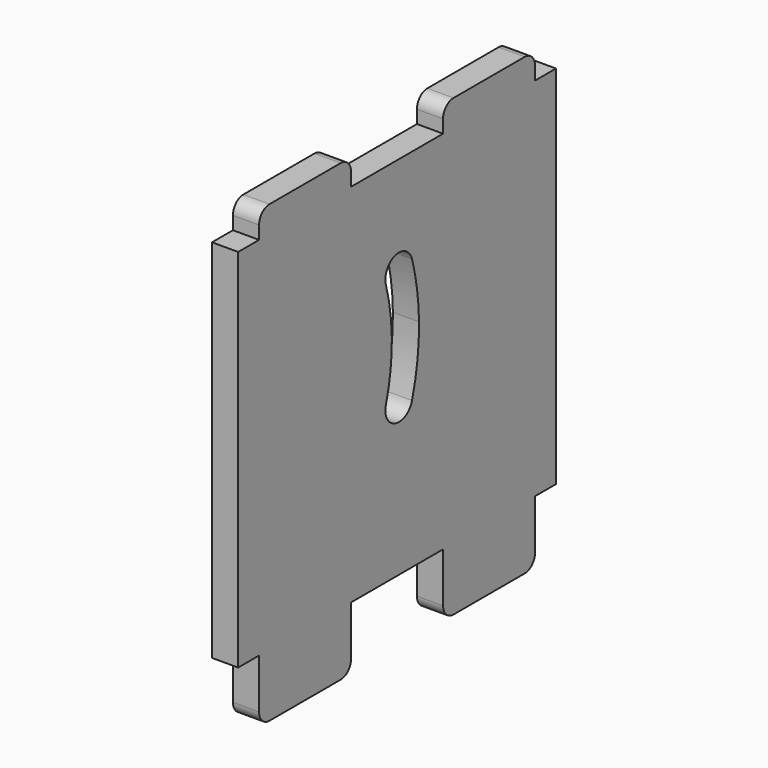
from build123d import *

# Parameters (mm, degrees)
F1_DEPTH = 2.5


with BuildPart() as f1:
    # F0 (on Right) → F1 (new body)
    with BuildSketch(Plane.YZ):
        Polygon((-16.5, 17.5), (-19, 17.5), (-19, 2.5), (-19, -17.5), (-16.5, -17.5), (-5.5, -17.5), (5.5, -17.5), (16.5, -17.5), (19, -17.5), (19, 17.5), (16.5, 17.5), (5.5, 17.5), (-5.5, 17.5), align=None)
        with BuildLine():
            Line((-1.336816, -2.564836), (-19, 2.5))
            Line((-19, 2.5), (-1.336816, 7.564836))
            ThreePointArc((-1.336816, 7.564836), (-0.222677, 9.574797), (1.787284, 8.460658))
            ThreePointArc((1.787284, 8.460658), (2.39116, 5.668277), (2.621954, 2.820684))
            ThreePointArc((2.621954, 2.820684), (2.435757, -0.350701), (1.787284, -3.460658))
            ThreePointArc((1.787284, -3.460658), (-0.222677, -4.574797), (-1.336816, -2.564836))
        make_face(mode=Mode.SUBTRACT)
        with BuildLine():
            Line((-1.336816, 7.564836), (-19, 2.5))
            Line((-19, 2.5), (-0.628046, 2.820684))
            ThreePointArc((-0.628046, 2.820684), (-0.827011, 5.21598), (-1.336816, 7.564836))
        make_face()
        with BuildLine():
            Line((-0.628046, 2.820684), (-19, 2.5))
            Line((-19, 2.5), (-1.336816, -2.564836))
            ThreePointArc((-1.336816, -2.564836), (-0.782394, 0.101597), (-0.628046, 2.820684))
        make_face()
        with BuildLine():
            Line((-5.5, -17.5), (-16.5, -17.5))
            Line((-16.5, -17.5), (-16.5, -22.25))
            ThreePointArc((-16.5, -22.25), (-16.133883, -23.133883), (-15.25, -23.5))
            Line((-15.25, -23.5), (-6.75, -23.5))
            ThreePointArc((-6.75, -23.5), (-5.866117, -23.133883), (-5.5, -22.25))
            Line((-5.5, -22.25), (-5.5, -17.5))
        make_face()
        with BuildLine():
            Line((16.5, -17.5), (5.5, -17.5))
            Line((5.5, -17.5), (5.5, -22.25))
            ThreePointArc((5.5, -22.25), (5.866117, -23.133883), (6.75, -23.5))
            Line((6.75, -23.5), (15.25, -23.5))
            ThreePointArc((15.25, -23.5), (16.133883, -23.133883), (16.5, -22.25))
            Line((16.5, -22.25), (16.5, -17.5))
        make_face()
        with BuildLine():
            Line((5.5, 18.75), (5.5, 17.5))
            Line((5.5, 17.5), (16.5, 17.5))
            Line((16.5, 17.5), (16.5, 18.75))
            ThreePointArc((16.5, 18.75), (16.133883, 19.633883), (15.25, 20))
            Line((15.25, 20), (6.75, 20))
            ThreePointArc((6.75, 20), (5.866117, 19.633883), (5.5, 18.75))
        make_face()
        with BuildLine():
            Line((-16.5, 18.75), (-16.5, 17.5))
            Line((-16.5, 17.5), (-5.5, 17.5))
            Line((-5.5, 17.5), (-5.5, 18.75))
            ThreePointArc((-5.5, 18.75), (-5.866117, 19.633883), (-6.75, 20))
            Line((-6.75, 20), (-15.25, 20))
            ThreePointArc((-15.25, 20), (-16.133883, 19.633883), (-16.5, 18.75))
        make_face()
    extrude(amount=F1_DEPTH)


solid = f1.part
